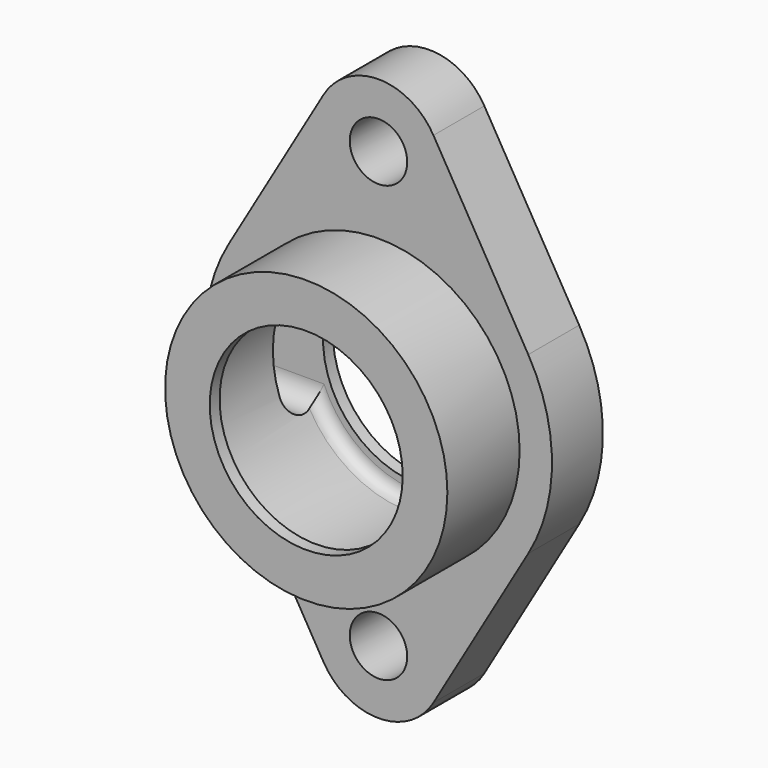
from build123d import *

# Parameters (mm, degrees)
F0_R     = 7.112
F0_R_2   = 34.925
F1_DEPTH = 15.748
F0_R_3   = 23.876
F2_DEPTH = 38.1
F7_DEPTH = 42.926


with BuildPart() as f1:
    # F0 (on Front) → F1 (new body)
    with BuildSketch(Plane.XZ):
        with BuildLine():
            Line((-37.057366, -21.665481), (-13.59501, -61.796283))
            ThreePointArc((-13.59501, -61.796283), (0, -69.596), (13.59501, -61.796283))
            Line((13.59501, -61.796283), (37.057366, -21.665481))
            ThreePointArc((37.057366, -21.665481), (42.926, 0), (37.057366, 21.665481))
            Line((37.057366, 21.665481), (13.59501, 61.796283))
            ThreePointArc((13.59501, 61.796283), (0, 69.596), (-13.59501, 61.796283))
            Line((-13.59501, 61.796283), (-37.057366, 21.665481))
            ThreePointArc((-37.057366, 21.665481), (-42.926, 0), (-37.057366, -21.665481))
        make_face()
        with Locations((0, -53.848)):
            Circle(F0_R, mode=Mode.SUBTRACT)
        Circle(F0_R_2, mode=Mode.SUBTRACT)
        with Locations((0, 53.848)):
            Circle(F0_R, mode=Mode.SUBTRACT)
    extrude(amount=F1_DEPTH)

    # F0 (on Front) → F2 (join)
    with BuildSketch(Plane.XZ):
        Circle(F0_R_2)
        Circle(F0_R_3, mode=Mode.SUBTRACT)
        Circle(F0_R_3)
    extrude(amount=F2_DEPTH)

    # F3 (on Top) → F4 (revolve, cut)
    with BuildSketch(Plane.XY):
        with BuildLine():
            Line((28.575, -32.004), (28.575, -6.096))
            ThreePointArc((28.575, -6.096), (27.682261, -3.940739), (25.527, -3.048))
            Line((25.527, -3.048), (23.876, -3.048))
            Line((23.876, -3.048), (23.876, 0))
            Line((23.876, 0), (0, 0))
            Line((0, 0), (0, -3.048))
            Line((0, -3.048), (0, -35.052))
            Line((0, -35.052), (0, -38.1))
            Line((0, -38.1), (23.876, -38.1))
            Line((23.876, -38.1), (23.876, -35.052))
            Line((23.876, -35.052), (25.527, -35.052))
            ThreePointArc((25.527, -35.052), (27.682261, -34.159261), (28.575, -32.004))
        make_face()
    revolve(axis=Axis((0, -25.012445, 0), (0, -1, 0)), mode=Mode.SUBTRACT)

    # F6 (on offset) → F7 (cut, through all)
    with BuildSketch(Plane.YZ.offset(-42.926)):
        with BuildLine():
            Line((-3.048, -9.652), (-3.048, 0))
            Line((-3.048, 0), (-3.048, 9.652))
            ThreePointArc((-3.048, 9.652), (-7.874, 14.478), (-12.7, 9.652))
            Line((-12.7, 9.652), (-12.7, 0))
            Line((-12.7, 0), (-12.7, -9.652))
            ThreePointArc((-12.7, -9.652), (-7.874, -14.478), (-3.048, -9.652))
        make_face()
    extrude(amount=F7_DEPTH, mode=Mode.SUBTRACT)


solid = f1.part
